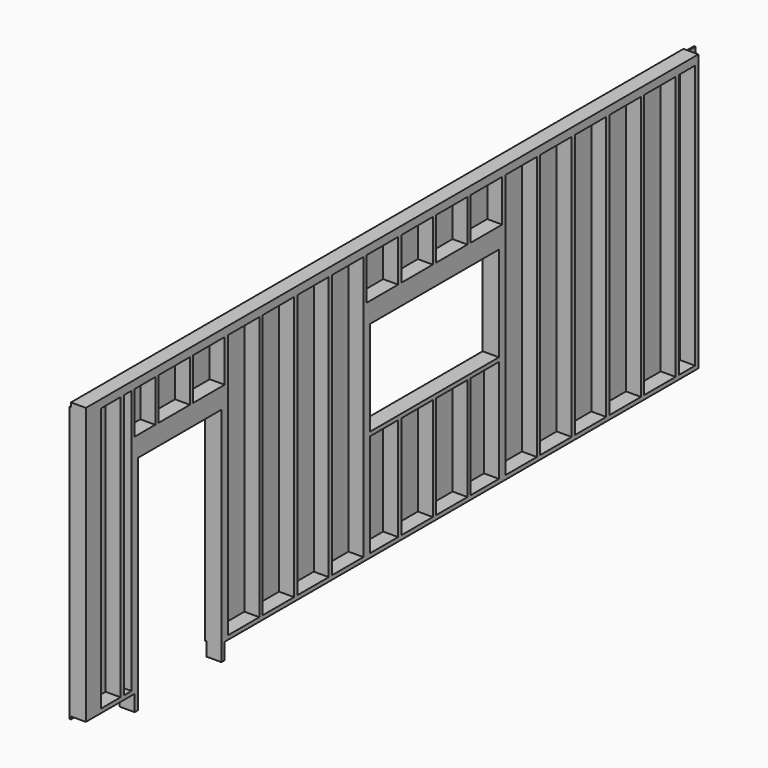
from build123d import *

# Parameters (mm, degrees)
F0_W      = 139.7
F0_H      = 7175.5
F1_DEPTH  = 38.1
F3_DEPTH  = 139.7
F4_W      = 139.7
F4_H      = 38.1
F4_W_2    = 38.1
F4_H_2    = 139.7
F5_DEPTH  = 2476.5
F6_W      = 1511.3
F6_H      = 889
F6_W_2    = 38.1
F6_H_2    = 152.4
F7_DEPTH  = 139.7
F8_W      = 7315.2
F8_H      = 2578.1
F9_DEPTH  = 12.7
F10_W     = 1511.3
F10_H     = 889
F10_W_2   = 977.9
F10_H_2   = 2082.8
F11_DEPTH = 152.401


with BuildPart() as f1:
    # F0 (on Top) → F1 (new body)
    with BuildSketch(Plane.XY):
        Rectangle(F0_W, F0_H)
    extrude(amount=F1_DEPTH)

    # F2 (on face) → F3 (join, through all)
    with BuildSketch(Plane.YZ.offset(69.85)):
        Polygon((3587.75, 2590.8), (-3587.75, 2590.8), (-3587.75, 38.1), (-3549.65, 38.1), (-3549.65, 2514.6), (3549.65, 2514.6), (3549.65, 38.1), (3587.75, 38.1), align=None)
    extrude(amount=-F3_DEPTH)

    # F4 (on face) → F5 (join, through all)
    with BuildSketch(Plane.XY.offset(38.1)):
        with Locations((0, -3162.3)):
            Rectangle(F4_W, F4_H)
        with Locations((0, -2755.9)):
            Rectangle(F4_W, F4_H)
        with Locations((0, -2349.5)):
            Rectangle(F4_W, F4_H)
        with Locations((0, -1943.1)):
            Rectangle(F4_W, F4_H)
        with Locations((0, -1536.7)):
            Rectangle(F4_W, F4_H)
        with Locations((0, -1130.3)):
            Rectangle(F4_W, F4_H)
        with Locations((0, -723.9)):
            Rectangle(F4_W, F4_H)
        with Locations((0, -317.5)):
            Rectangle(F4_W, F4_H)
        with Locations((0, 88.9)):
            Rectangle(F4_W, F4_H)
        with Locations((0, 495.3)):
            Rectangle(F4_W, F4_H)
        with Locations((0, 901.7)):
            Rectangle(F4_W, F4_H)
        with Locations((0, 1308.1)):
            Rectangle(F4_W, F4_H)
        with Locations((0, 1714.5)):
            Rectangle(F4_W, F4_H)
        with Locations((0, 2120.9)):
            Rectangle(F4_W, F4_H)
        with Locations((0, 2527.3)):
            Rectangle(F4_W, F4_H)
        with Locations((0, 2933.7)):
            Rectangle(F4_W, F4_H)
        with Locations((0, 3340.1)):
            Rectangle(F4_W, F4_H)
        with Locations((50.8, -3479.8)):
            Rectangle(F4_W_2, F4_H_2)
    extrude(amount=F5_DEPTH)

    # F6 (on face) → F7 (join)
    with BuildSketch(Plane.YZ.offset(69.85)):
        Polygon((-3054.35, 2514.6), (-3054.35, 38.1), (-2978.15, 38.1), (-2978.15, 1930.4), (-2000.25, 1930.4), (-2000.25, 38.1), (-1962.15, 38.1), (-1962.15, 2120.9), (-3016.25, 2120.9), (-3016.25, 2514.6), align=None)
        Polygon((-260.35, 38.1), (-260.35, 1003.3), (1250.95, 1003.3), (1250.95, 38.1), (1289.05, 38.1), (1289.05, 2120.9), (-298.45, 2120.9), (-298.45, 38.1), align=None)
        with Locations((495.3, 1485.9)):
            Rectangle(F6_W, F6_H, mode=Mode.SUBTRACT)
        with Locations((-2997.2, -76.2)):
            Rectangle(F6_W_2, F6_H_2)
        with Locations((-1981.2, -76.2)):
            Rectangle(F6_W_2, F6_H_2)
    extrude(amount=-F7_DEPTH)

    # F8 (on face) → F9 (join)
    with BuildSketch(Plane(origin=(-69.85, 0, 0), x_dir=(0, -1, 0), z_dir=(-1, 0, 0))):
        with Locations((-69.85, 1263.65)):
            Rectangle(F8_W, F8_H)
    extrude(amount=F9_DEPTH)

    # F10 (on face) → F11 (cut, through all)
    with BuildSketch(Plane.YZ.offset(69.85)):
        with Locations((495.3, 1485.9)):
            Rectangle(F10_W, F10_H)
        with Locations((-2489.2, 889)):
            Rectangle(F10_W_2, F10_H_2)
    extrude(amount=-F11_DEPTH, mode=Mode.SUBTRACT)


solid = f1.part
